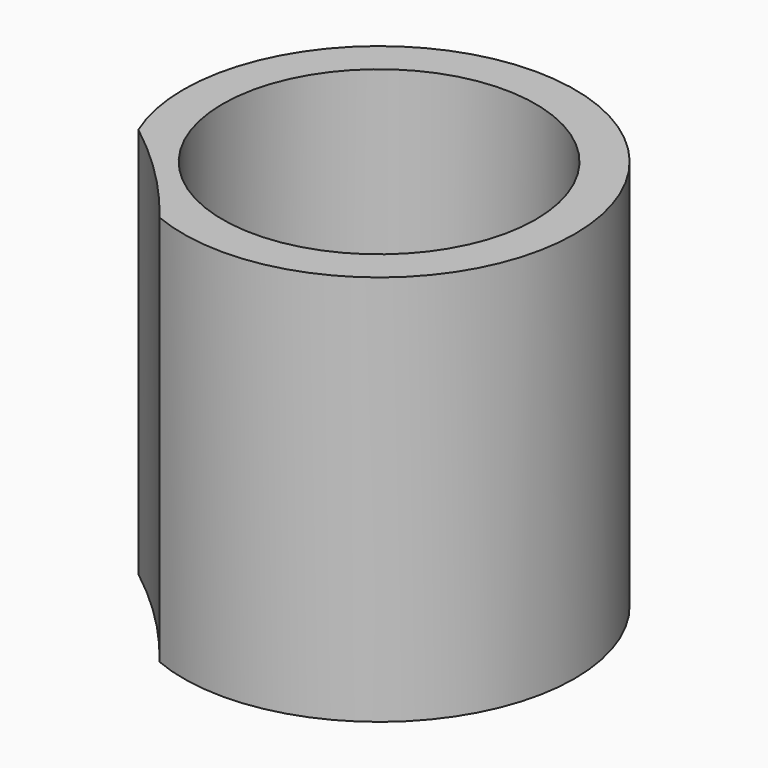
from build123d import *

# Parameters (mm, degrees)
F0_R     = 4
F1_DEPTH = 10


with BuildPart() as f1:
    # F0 (on Top) → F1 (new body)
    with BuildSketch(Plane.XY):
        with BuildLine():
            ThreePointArc((-4.605401, -1.527502), (-3.170388, -2.790271), (-1.90762, -4.225283))
            ThreePointArc((-1.90762, -4.225283), (3.547126, 3.927244), (-4.605401, -1.527502))
        make_face()
        with Locations((0.011592, 0.39171)):
            Circle(F0_R, mode=Mode.SUBTRACT)
    extrude(amount=F1_DEPTH)


solid = f1.part
